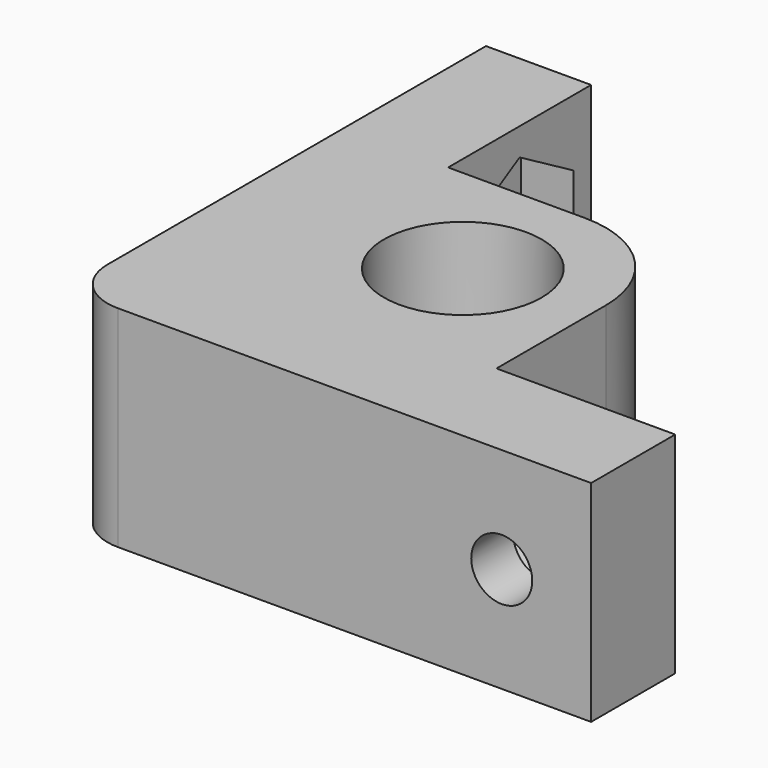
from build123d import *

# Parameters (mm, degrees)
F0_R      = 4.7625
F1_DEPTH  = 12.7
F2_R      = 6.35
F3_R      = 3.175
F4_R      = 1.8415
F5_DEPTH  = 25.4
F7_DEPTH  = 3.175
F8_R      = 1.8415
F9_DEPTH  = 25.4
F11_DEPTH = 3.175


with BuildPart() as f1:
    # F0 (on Top) → F1 (new body)
    with BuildSketch(Plane.XY):
        Polygon((-13.335, 18.415), (-13.335, -13.335), (18.415, -13.335), (18.415, -6.985), (7.62, -6.985), (7.62, 7.62), (-6.985, 7.62), (-6.985, 18.415), align=None)
        Circle(F0_R, mode=Mode.SUBTRACT)
    extrude(amount=F1_DEPTH)

    # F2
    f2_edges = [f1.edges().sort_by_distance(p)[0] for p in [
        (7.62, 7.62, 6.35),
    ]]
    fillet(f2_edges, radius=F2_R)

    # F3
    f3_edges = [f1.edges().sort_by_distance(p)[0] for p in [
        (-13.335, -13.335, 6.35),
    ]]
    fillet(f3_edges, radius=F3_R)

    # F4 (on face) → F5 (cut)
    with BuildSketch(Plane(origin=(0, -6.985, 0), x_dir=(-1, 0, 0), z_dir=(0, 1, 0))):
        with Locations((-13.0175, 6.35)):
            Circle(F4_R)
    extrude(amount=-F5_DEPTH, mode=Mode.SUBTRACT)

    # F6 (on face) → F7 (cut)
    with BuildSketch(Plane(origin=(0, -6.985, 0), x_dir=(-1, 0, 0), z_dir=(0, 1, 0))):
        Polygon((-17.0815, 4.003649), (-13.0175, 1.657297), (-8.9535, 4.003649), (-8.9535, 8.696351), (-13.0175, 11.042703), (-17.0815, 8.696351), align=None)
    extrude(amount=-F7_DEPTH, mode=Mode.SUBTRACT)

    # F8 (on face) → F9 (cut)
    with BuildSketch(Plane.YZ.offset(-6.985)):
        with Locations((13.0175, 6.35)):
            Circle(F8_R)
    extrude(amount=-F9_DEPTH, mode=Mode.SUBTRACT)

    # F10 (on face) → F11 (cut)
    with BuildSketch(Plane.YZ.offset(-6.985)):
        Polygon((8.9535, 8.696351), (8.9535, 4.003649), (13.0175, 1.657297), (17.0815, 4.003649), (17.0815, 8.696351), (13.0175, 11.042703), align=None)
    extrude(amount=-F11_DEPTH, mode=Mode.SUBTRACT)


solid = f1.part
